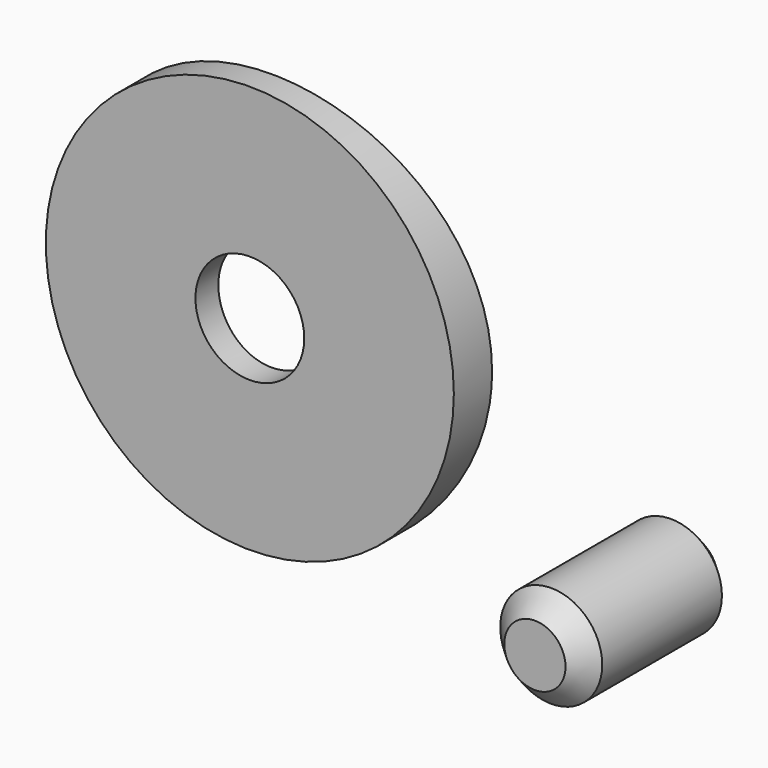
from build123d import *

# Parameters (mm, degrees)
F2_R     = 15
F3_DEPTH = 5
F0_R     = 75
F4_DEPTH = 50
F5_R     = 4
F6_DEPTH = 25
F7_R     = 3.75
F8_DEPTH = 14
F9_SIZE  = 1.5


with BuildPart() as f3:
    # F2 (on offset) → F3 (new body)
    with BuildSketch(Plane.XZ.offset(77)):
        with Locations((0, 15)):
            Circle(F2_R)
    extrude(amount=-F3_DEPTH)

    # F0 (on Top) → F4 (cut)
    with BuildSketch(Plane.XY):
        Circle(F0_R)
    extrude(amount=F4_DEPTH, mode=Mode.SUBTRACT)

    # F5 (on face) → F6 (cut)
    with BuildSketch(Plane.XZ.offset(77)):
        with Locations((0, 15)):
            Circle(F5_R)
    extrude(amount=-F6_DEPTH, mode=Mode.SUBTRACT)


with BuildPart() as f8:
    # F7 (on offset) → F8 (new body)
    with BuildSketch(Plane.XZ.offset(77)):
        with Locations((20.96048, 0)):
            Circle(F7_R)
    extrude(amount=-F8_DEPTH)

    # F9
    f9_edges = [f8.edges().sort_by_distance(p)[0] for p in [
        (17.21048, -77, 0),
        (17.21048, -63, 0),
    ]]
    chamfer(f9_edges, length=F9_SIZE)


solid = Compound([f3.part, f8.part])
